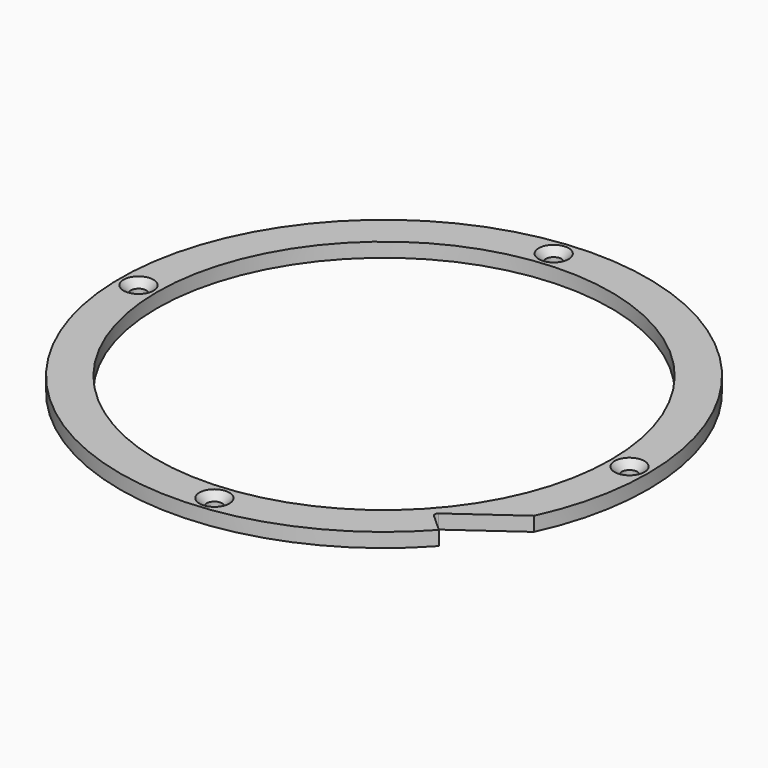
from build123d import *

# Parameters (mm, degrees)
F0_R     = 1.1
F0_R_2   = 31.9
F1_DEPTH = 2
F2_SIZE2 = 1
F2_SIZE  = 1


with BuildPart() as f1:
    # F0 (on Top) → F1 (new body)
    with BuildSketch(Plane.XY):
        with BuildLine():
            Line((25.103279, -21.786145), (33.624019, -15.679138))
            ThreePointArc((33.624019, -15.679138), (-30.937164, 20.476862), (27.570673, -24.824745))
            Line((27.570673, -24.824745), (25.059989, -22.564115))
            ThreePointArc((25.059989, -22.564115), (24.895326, -22.164763), (25.103279, -21.786145))
        make_face()
        with Locations((3.606232, -34.311005)):
            Circle(F0_R, mode=Mode.SUBTRACT)
        with Locations((-34.5, 0)):
            Circle(F0_R, mode=Mode.SUBTRACT)
        with Locations((-3.606232, 34.311005)):
            Circle(F0_R, mode=Mode.SUBTRACT)
        Circle(F0_R_2, mode=Mode.SUBTRACT)
        with Locations((34.5, 0)):
            Circle(F0_R, mode=Mode.SUBTRACT)
    extrude(amount=F1_DEPTH)

    # F2
    f2_edges = [f1.edges().sort_by_distance(p)[0] for p in [
        (33.4, 0, 2),
        (-4.706232, 34.311005, 2),
        (-35.6, 0, 2),
        (2.506232, -34.311005, 2),
    ]]
    chamfer(f2_edges, length=F2_SIZE, length2=F2_SIZE2)


solid = f1.part
